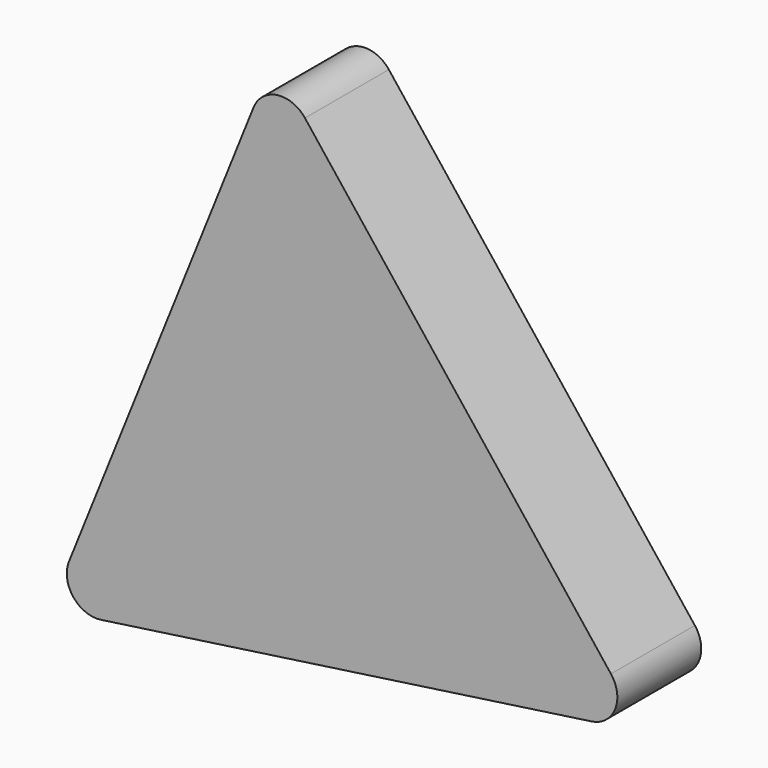
from build123d import *

# Parameters (mm, degrees)
F1_DEPTH = 17.78
F2_R     = 5.08
F4_R     = 5.715
F5_DEPTH = 12.7


with BuildPart() as f1:
    # F0 (on Front) → F1 (new body)
    with BuildSketch(Plane.XZ):
        Polygon((-4.068127, 56.574355), (-41.914549, -37.713546), (58.66438, -23.345558), align=None)
    extrude(amount=F1_DEPTH)

    # F2
    f2_edges = [f1.edges().sort_by_distance(p)[0] for p in [
        (-4.068127, -8.89, 56.574355),
        (58.66438, -8.89, -23.345558),
        (-41.914549, -8.89, -37.713546),
    ]]
    fillet(f2_edges, radius=F2_R)

    # F4 (on face) → F5 (cut)
    with BuildSketch(Plane(origin=(0, 0, 0), x_dir=(-1, 0, 0), z_dir=(0, 1, 0))):
        with Locations((1.840184, 40.36641)):
            Circle(F4_R)
        with Locations((-8.471368, 27.190541)):
            Circle(F4_R)
        with Locations((7.1608, 24.728628)):
            Circle(F4_R)
        with Locations((-18.710878, 13.917103)):
            Circle(F4_R)
        with Locations((-2.386934, 10.979893)):
            Circle(F4_R)
        with Locations((14.226123, 8.879391)):
            Circle(F4_R)
        with Locations((-12.889439, -1.43216)):
            Circle(F4_R)
        with Locations((3.150751, -4.105525)):
            Circle(F4_R)
        with Locations((19.381898, -8.115573)):
            Circle(F4_R)
        with Locations((-22.437172, -16.326623)):
            Circle(F4_R)
        with Locations((-7.1608, -18.999988)):
            Circle(F4_R)
        with Locations((8.115572, -21.100491)):
            Circle(F4_R)
        with Locations((-28.92963, 0)):
            Circle(F4_R)
        with Locations((-37.140679, -12.698484)):
            Circle(F4_R)
        with Locations((24.919583, -24.155764)):
            Circle(F4_R)
    extrude(amount=-F5_DEPTH, mode=Mode.SUBTRACT)


solid = f1.part
